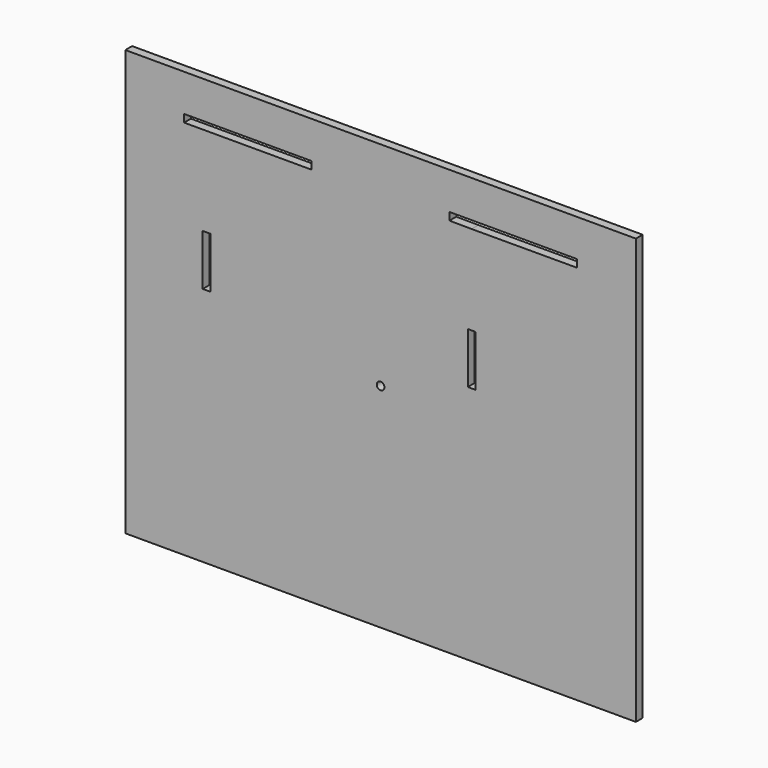
from build123d import *

# Parameters (mm, degrees)
F0_W     = 762
F0_H     = 635
F0_R     = 5.715
F1_DEPTH = 12.7
F3_DEPTH = 25.4


with BuildPart() as f1:
    # F0 (on Front) → F1 (new body)
    with BuildSketch(Plane.XZ):
        with Locations((305.707533, 241.099222)):
            Rectangle(F0_W, F0_H)
        with Locations((305.707533, 241.099222)):
            Circle(F0_R, mode=Mode.SUBTRACT)
    extrude(amount=F1_DEPTH)

    # F2 (on face) → F3 (cut)
    with BuildSketch(Plane.XZ.offset(12.7)):
        Polygon((12.430525, 491.745319), (45.450525, 491.745319), (202.930525, 491.745319), (202.849582, 503.175319), (12.430525, 503.175319), align=None)
        Polygon((51.707533, 282.298022), (51.707533, 358.498022), (45.992533, 358.498022), (40.277533, 358.498022), (40.277533, 282.298022), align=None)
        Polygon((598.984542, 491.745319), (598.984542, 503.175319), (408.565485, 503.175319), (408.484542, 491.745319), (441.503714, 491.511489), align=None)
        Polygon((447.218714, 358.263089), (441.503714, 358.263089), (435.788714, 358.263089), (435.788714, 282.063089), (447.218714, 282.063089), align=None)
    extrude(amount=-F3_DEPTH, mode=Mode.SUBTRACT)


solid = f1.part
